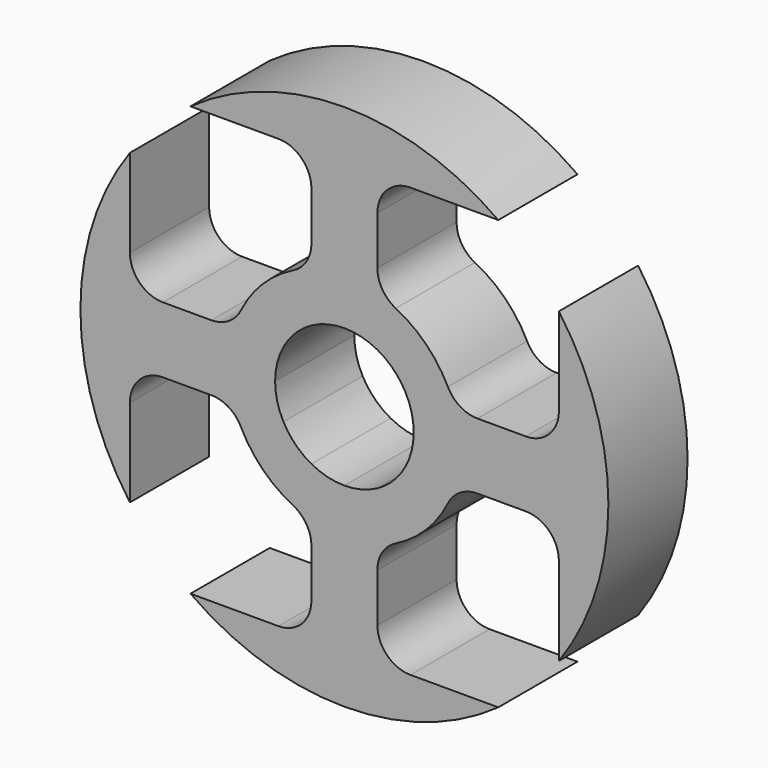
from build123d import *

# Parameters (mm, degrees)
F1_DEPTH = 3
F2_R     = 1


with BuildPart() as f1:
    # F0 (on Front) → F1 (new body)
    with BuildSketch(Plane.XZ):
        with BuildLine():
            Line((-6.5, 1), (-6.5, 4.6636895265))
            ThreePointArc((-6.5, 4.6636895265), (-8, 0), (-6.5, -4.6636895265))
            Line((-6.5, -4.6636895265), (-6.5, -1))
            Line((-6.5, -1), (-6.5, 0))
            Line((-6.5, 0), (-6.5, 1))
        make_face()
        with BuildLine():
            Line((-3.3541019662, 1), (-6.5, 1))
            Line((-6.5, 1), (-6.5, 0))
            Line((-6.5, 0), (-3.5, 0))
            ThreePointArc((-3.5, 0), (-3.4633334291, 0.5052935375), (-3.3541019662, 1))
        make_face()
        with BuildLine():
            Line((-6.5, 0), (-6.5, -1))
            Line((-6.5, -1), (-3.3541019662, -1))
            ThreePointArc((-3.3541019662, -1), (-3.4633334291, -0.5052935375), (-3.5, 0))
            Line((-3.5, 0), (-6.5, 0))
        make_face()
        with BuildLine():
            Line((-1.8466185313, 1), (-3.3541019662, 1))
            ThreePointArc((-3.3541019662, 1), (-3.4633334291, 0.5052935375), (-3.5, 0))
            Line((-3.5, 0), (-2.1, 0))
            ThreePointArc((-2.1, 0), (-2.0356692899, 0.5158008745), (-1.8466185313, 1))
        make_face()
        with BuildLine():
            ThreePointArc((-1, 3.3541019662), (-2.4748737342, 2.4748737342), (-3.3541019662, 1))
            Line((-3.3541019662, 1), (-1.8466185313, 1))
            ThreePointArc((-1.8466185313, 1), (-1.4849242405, 1.4849242405), (-1, 1.8466185313))
            Line((-1, 1.8466185313), (-1, 3.3541019662))
        make_face()
        with BuildLine():
            Line((-1.8466185313, -1), (-3.3541019662, -1))
            ThreePointArc((-3.3541019662, -1), (-2.4748737342, -2.4748737342), (-1, -3.3541019662))
            Line((-1, -3.3541019662), (-1, -1.8466185313))
            ThreePointArc((-1, -1.8466185313), (-1.4849242405, -1.4849242405), (-1.8466185313, -1))
        make_face()
        with BuildLine():
            ThreePointArc((-3.5, 0), (-3.4633334291, -0.5052935375), (-3.3541019662, -1))
            Line((-3.3541019662, -1), (-1.8466185313, -1))
            ThreePointArc((-1.8466185313, -1), (-2.0356692899, -0.5158008745), (-2.1, 0))
            Line((-2.1, 0), (-3.5, 0))
        make_face()
        with BuildLine():
            Line((-1, 6.5), (-1, 3.3541019662))
            ThreePointArc((-1, 3.3541019662), (-0.5052935375, 3.4633334291), (0, 3.5))
            Line((0, 3.5), (0, 6.5))
            Line((0, 6.5), (-1, 6.5))
        make_face()
        with BuildLine():
            ThreePointArc((0, 3.5), (-0.5052935375, 3.4633334291), (-1, 3.3541019662))
            Line((-1, 3.3541019662), (-1, 1.8466185313))
            ThreePointArc((-1, 1.8466185313), (-0.5158008745, 2.0356692899), (0, 2.1))
            Line((0, 2.1), (0, 3.5))
        make_face()
        with BuildLine():
            Line((-1, -1.8466185313), (-1, -3.3541019662))
            ThreePointArc((-1, -3.3541019662), (-0.5052935375, -3.4633334291), (0, -3.5))
            Line((0, -3.5), (0, -2.1))
            ThreePointArc((0, -2.1), (-0.5158008745, -2.0356692899), (-1, -1.8466185313))
        make_face()
        with BuildLine():
            ThreePointArc((0, -3.5), (-0.5052935375, -3.4633334291), (-1, -3.3541019662))
            Line((-1, -3.3541019662), (-1, -6.5))
            Line((-1, -6.5), (0, -6.5))
            Line((0, -6.5), (0, -3.5))
        make_face()
        with BuildLine():
            Line((0, 6.5), (0, 3.5))
            ThreePointArc((0, 3.5), (0.5052935375, 3.4633334291), (1, 3.3541019662))
            Line((1, 3.3541019662), (1, 6.5))
            Line((1, 6.5), (0, 6.5))
        make_face()
        with BuildLine():
            ThreePointArc((1, 3.3541019662), (0.5052935375, 3.4633334291), (0, 3.5))
            Line((0, 3.5), (0, 2.1))
            ThreePointArc((0, 2.1), (0.5158008745, 2.0356692899), (1, 1.8466185313))
            Line((1, 1.8466185313), (1, 3.3541019662))
        make_face()
        with BuildLine():
            Line((-4.6636895265, 6.5), (-1, 6.5))
            Line((-1, 6.5), (0, 6.5))
            Line((0, 6.5), (1, 6.5))
            Line((1, 6.5), (4.6636895265, 6.5))
            ThreePointArc((4.6636895265, 6.5), (0, 8), (-4.6636895265, 6.5))
        make_face()
        with BuildLine():
            Line((0, -2.1), (0, -3.5))
            ThreePointArc((0, -3.5), (0.5052935375, -3.4633334291), (1, -3.3541019662))
            Line((1, -3.3541019662), (1, -1.8466185313))
            ThreePointArc((1, -1.8466185313), (0.5158008745, -2.0356692899), (0, -2.1))
        make_face()
        with BuildLine():
            ThreePointArc((1, -3.3541019662), (0.5052935375, -3.4633334291), (0, -3.5))
            Line((0, -3.5), (0, -6.5))
            Line((0, -6.5), (1, -6.5))
            Line((1, -6.5), (1, -3.3541019662))
        make_face()
        with BuildLine():
            Line((0, -6.5), (-1, -6.5))
            Line((-1, -6.5), (-4.6636895265, -6.5))
            ThreePointArc((-4.6636895265, -6.5), (0, -8), (4.6636895265, -6.5))
            Line((4.6636895265, -6.5), (1, -6.5))
            Line((1, -6.5), (0, -6.5))
        make_face()
        with BuildLine():
            ThreePointArc((3.3541019662, 1), (2.4748737342, 2.4748737342), (1, 3.3541019662))
            Line((1, 3.3541019662), (1, 1.8466185313))
            ThreePointArc((1, 1.8466185313), (1.4849242405, 1.4849242405), (1.8466185313, 1))
            Line((1.8466185313, 1), (3.3541019662, 1))
        make_face()
        with BuildLine():
            Line((1, -1.8466185313), (1, -3.3541019662))
            ThreePointArc((1, -3.3541019662), (2.4748737342, -2.4748737342), (3.3541019662, -1))
            Line((3.3541019662, -1), (1.8466185313, -1))
            ThreePointArc((1.8466185313, -1), (1.4849242405, -1.4849242405), (1, -1.8466185313))
        make_face()
        with BuildLine():
            Line((6.5, 1), (3.3541019662, 1))
            ThreePointArc((3.3541019662, 1), (3.4633334291, 0.5052935375), (3.5, 0))
            Line((3.5, 0), (6.5, 0))
            Line((6.5, 0), (6.5, 1))
        make_face()
        with BuildLine():
            ThreePointArc((3.5, 0), (3.4633334291, 0.5052935375), (3.3541019662, 1))
            Line((3.3541019662, 1), (1.8466185313, 1))
            ThreePointArc((1.8466185313, 1), (2.0356692899, 0.5158008745), (2.1, 0))
            Line((2.1, 0), (3.5, 0))
        make_face()
        with BuildLine():
            Line((1.8466185313, -1), (3.3541019662, -1))
            ThreePointArc((3.3541019662, -1), (3.4633334291, -0.5052935375), (3.5, 0))
            Line((3.5, 0), (2.1, 0))
            ThreePointArc((2.1, 0), (2.0356692899, -0.5158008745), (1.8466185313, -1))
        make_face()
        with BuildLine():
            ThreePointArc((3.5, 0), (3.4633334291, -0.5052935375), (3.3541019662, -1))
            Line((3.3541019662, -1), (6.5, -1))
            Line((6.5, -1), (6.5, 0))
            Line((6.5, 0), (3.5, 0))
        make_face()
        with BuildLine():
            Line((6.5, 4.6636895265), (6.5, 1))
            Line((6.5, 1), (6.5, 0))
            Line((6.5, 0), (6.5, -1))
            Line((6.5, -1), (6.5, -4.6636895265))
            ThreePointArc((6.5, -4.6636895265), (8, 0), (6.5, 4.6636895265))
        make_face()
    extrude(amount=F1_DEPTH)

    # F2
    f2_edges = [f1.edges().sort_by_distance(p)[0] for p in [
        (-1, -1.5, -6.5),
        (-3.354102, -1.5, 1),
        (-1, -1.5, 3.354102),
        (6.5, -1.5, 1),
        (3.354102, -1.5, -1),
        (1, -1.5, -3.354102),
        (-6.5, -1.5, -1),
        (1, -1.5, 6.5),
        (6.5, -1.5, -1),
        (-1, -1.5, -3.354102),
        (-3.354102, -1.5, -1),
        (-6.5, -1.5, 1),
        (1, -1.5, 3.354102),
        (3.354102, -1.5, 1),
        (-1, -1.5, 6.5),
        (1, -1.5, -6.5),
    ]]
    fillet(f2_edges, radius=F2_R)


solid = f1.part
